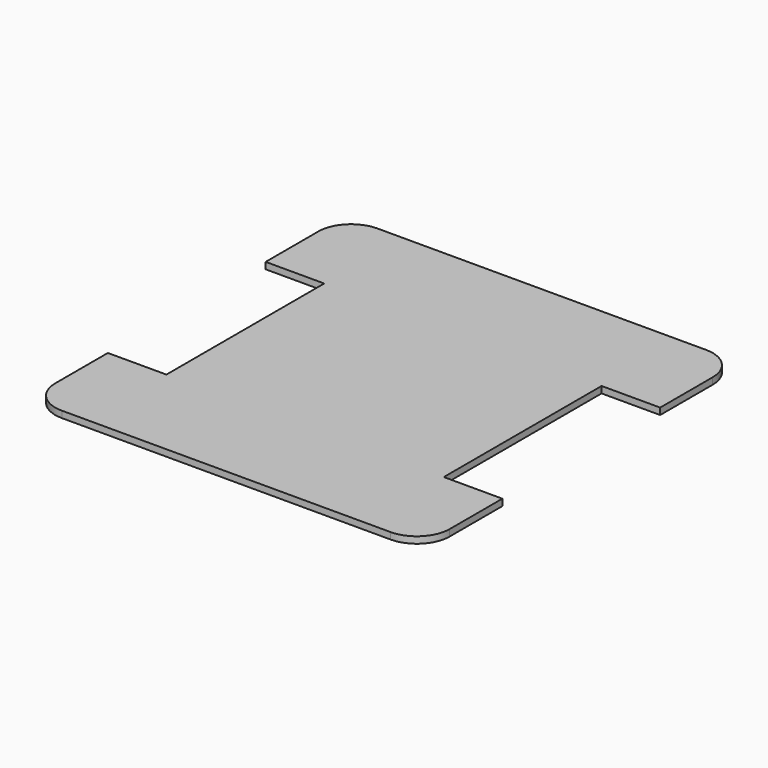
from build123d import *

# Parameters (mm, degrees)
F1_DEPTH = 10


with BuildPart() as f1:
    # F0 (on Top) → F1 (new body)
    with BuildSketch(Plane.XY):
        with BuildLine():
            ThreePointArc((300, 250), (285.355339, 285.355339), (250, 300))
            Line((250, 300), (-250, 300))
            ThreePointArc((-250, 300), (-285.355339, 285.355339), (-300, 250))
            Line((-300, 250), (-300, 150))
            Line((-300, 150), (-210.945189, 150))
            Line((-210.945189, 150), (-210.945189, -150))
            Line((-210.945189, -150), (-300, -150))
            Line((-300, -150), (-300, -250))
            ThreePointArc((-300, -250), (-285.355339, -285.355339), (-250, -300))
            Line((-250, -300), (250, -300))
            ThreePointArc((250, -300), (285.355339, -285.355339), (300, -250))
            Line((300, -250), (300, -150))
            Line((300, -150), (210.945189, -150))
            Line((210.945189, -150), (210.945189, 150))
            Line((210.945189, 150), (300, 150))
            Line((300, 150), (300, 250))
        make_face()
    extrude(amount=F1_DEPTH)


solid = f1.part
